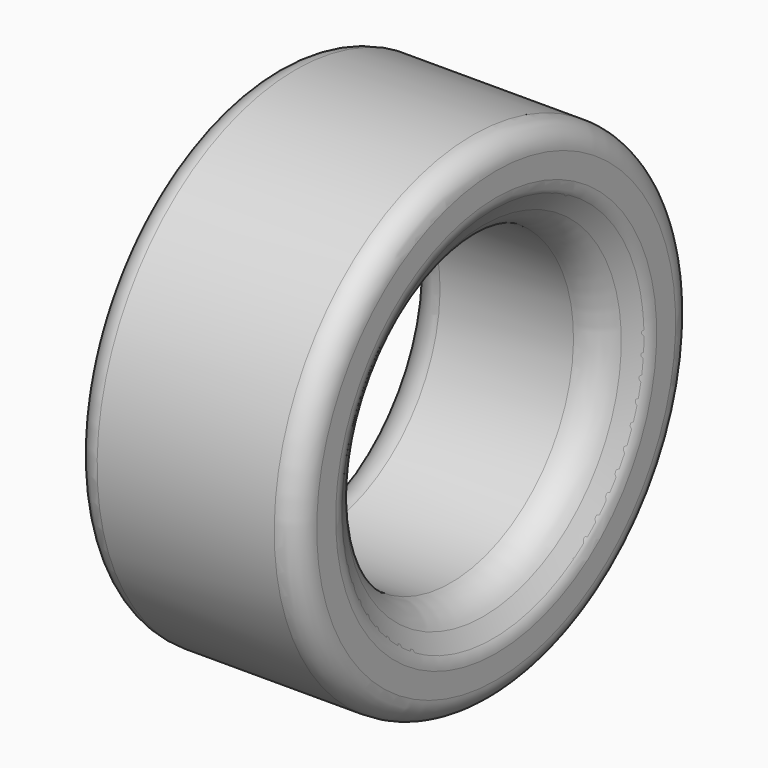
from build123d import *


with BuildPart() as f1:
    # F0 (on Front) → F1 (revolve)
    with BuildSketch(Plane.XZ):
        with BuildLine():
            Line((369.435709, 99.357635), (-11.564291, 99.357635))
            ThreePointArc((-11.564291, 99.357635), (-47.485316, 84.47866), (-62.364291, 48.557635))
            Line((-62.364291, 48.557635), (-62.364291, -2.242365))
            ThreePointArc((-62.364291, -2.242365), (-47.485316, -38.163389), (-11.564291, -53.042365))
            Line((-11.564291, -53.042365), (369.435709, -53.042365))
            ThreePointArc((369.435709, -53.042365), (405.356733, -38.163389), (420.235709, -2.242365))
            Line((420.235709, -2.242365), (420.235709, 48.557635))
            ThreePointArc((420.235709, 48.557635), (405.356733, 84.47866), (369.435709, 99.357635))
        make_face()
    revolve(axis=Axis((131.612428, 0, -434.042365), (1, 0, 0)))


with BuildPart() as f3:
    # F2 (on face) → F3 (revolve)
    with BuildSketch(Plane.XZ):
        with BuildLine():
            Line((392.899224, -63.202365), (413.4298, -27.642364))
            ThreePointArc((413.4298, -27.642364), (394.835709, -46.236455), (369.435709, -53.042365))
            Line((369.435709, -53.042365), (-11.564291, -53.042365))
            ThreePointArc((-11.564291, -53.042365), (-36.964291, -46.236455), (-55.558382, -27.642365))
            Line((-55.558382, -27.642365), (-35.027806, -63.202365))
            ThreePointArc((-35.027806, -63.202365), (-5.277262, -92.95291), (35.362738, -103.842365))
            Line((35.362738, -103.842365), (322.508679, -103.842365))
            ThreePointArc((322.508679, -103.842365), (363.148679, -92.95291), (392.899224, -63.202365))
        make_face()
    revolve(axis=Axis((131.612428, 0, -434.042365), (1, 0, 0)))


solid = Compound([f1.part, f3.part])
